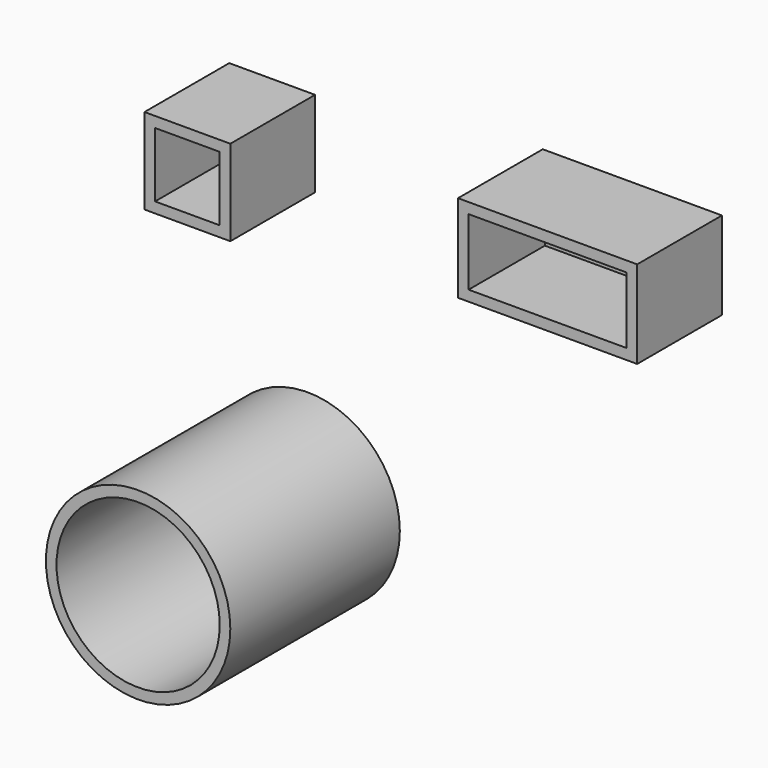
from build123d import *

# Parameters (mm, degrees)
F0_W     = 20.581853
F0_H     = 20.581847
F1_DEPTH = 25.4
F2_W     = 42.953434
F2_H     = 21.02928
F3_DEPTH = 25.4
F4_R     = 22.106014
F5_DEPTH = 50.8
F6_T     = -2.54
F7_T     = -2.54
F8_T     = -2.54


with BuildPart() as f1:
    # F0 (on Front) → F1 (new body)
    with BuildSketch(Plane.XZ):
        with Locations((-45.638019, 34.89966)):
            Rectangle(F0_W, F0_H)
    extrude(amount=F1_DEPTH)

    # F7
    f7_openings = [f1.faces().sort_by_distance(p)[0] for p in [
        (-45.638019, -25.4, 34.89966),
    ]]
    offset(amount=F7_T, openings=f7_openings)


with BuildPart() as f3:
    # F2 (on Front) → F3 (new body)
    with BuildSketch(Plane.XZ):
        with Locations((40.716271, 40.939986)):
            Rectangle(F2_W, F2_H)
    extrude(amount=F3_DEPTH)

    # F8
    f8_openings = [f3.faces().sort_by_distance(p)[0] for p in [
        (40.716271, -25.4, 40.939986),
    ]]
    offset(amount=F8_T, openings=f8_openings)


with BuildPart() as f5:
    # F4 (on Front) → F5 (new body)
    with BuildSketch(Plane.XZ):
        with Locations((-37.136823, -40.268838)):
            Circle(F4_R)
    extrude(amount=F5_DEPTH)

    # F6
    f6_openings = [f5.faces().sort_by_distance(p)[0] for p in [
        (-37.136823, -50.8, -40.268838),
        (-37.136823, 0, -40.268838),
    ]]
    offset(amount=F6_T, openings=f6_openings)


solid = Compound([f1.part, f3.part, f5.part])
